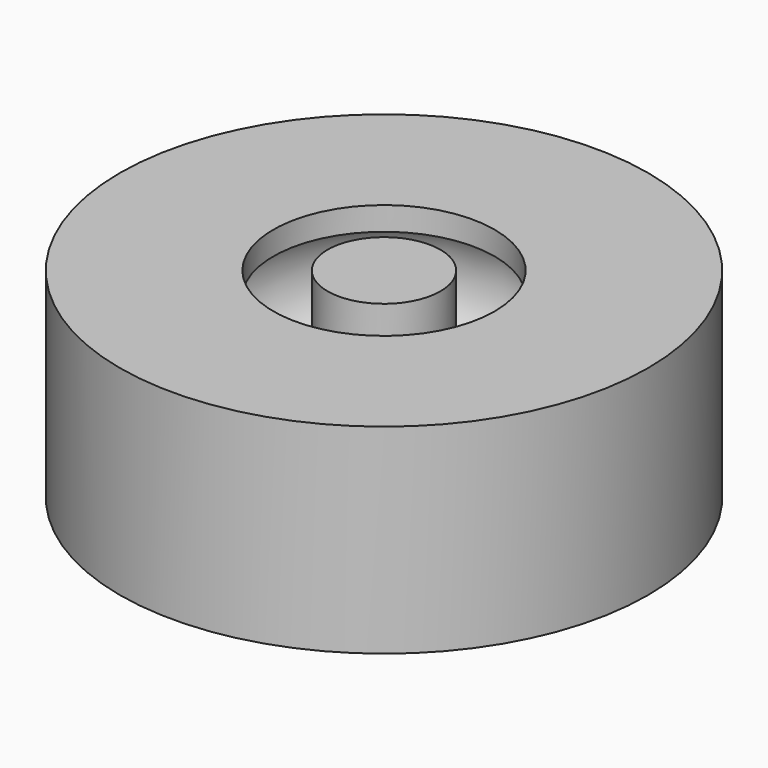
from build123d import *


with BuildPart() as f1:
    # F0 (on Front) → F1 (revolve)
    with BuildSketch(Plane.XZ):
        with BuildLine():
            Line((0, 50.524443), (0, 0))
            Line((0, 0), (14.255121, 0))
            Line((14.255121, 0), (14.255121, 11.653305))
            ThreePointArc((14.255121, 11.653305), (8.648694, 25.262222), (14.255121, 38.871138))
            Line((14.255121, 38.871138), (14.255121, 50.524443))
            Line((14.255121, 50.524443), (0, 50.524443))
        make_face()
        with BuildLine():
            Line((66.764474, 0), (66.764474, 50.524443))
            Line((66.764474, 50.524443), (27.968898, 50.524443))
            Line((27.968898, 50.524443), (27.968898, 44.582426))
            ThreePointArc((27.968898, 44.582426), (47.289103, 25.262222), (27.968898, 5.942017))
            Line((27.968898, 5.942017), (27.968898, 0))
            Line((27.968898, 0), (66.764474, 0))
        make_face()
    revolve(axis=Axis((0, 0, 25.262222), (0, 0, 1)))


solid = f1.part
